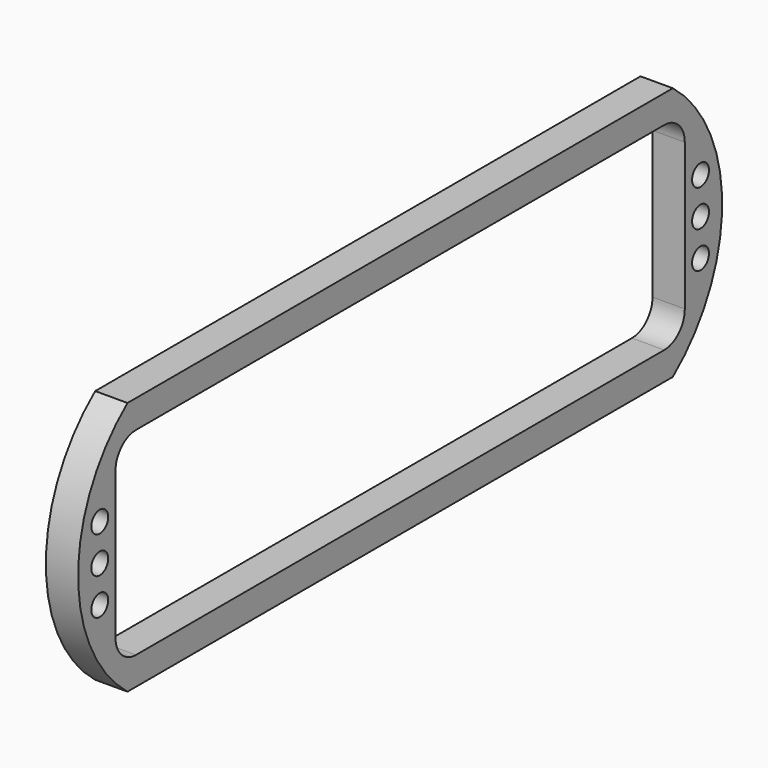
from build123d import *

# Parameters (mm, degrees)
F0_R     = 1.8288
F0_W     = 123.19
F0_H     = 34.29
F1_DEPTH = 5.588
F2_R     = 4.445


with BuildPart() as f1:
    # F0 (on Right) → F1 (new body)
    with BuildSketch(Plane.YZ):
        with BuildLine():
            ThreePointArc((59, -22), (69.679492, 0), (59, 22))
            Line((59, 22), (-59, 22))
            ThreePointArc((-59, 22), (-69.679492, 0), (-59, -22))
            Line((-59, -22), (59, -22))
        make_face()
        with Locations((-65, -6.35)):
            Circle(F0_R, mode=Mode.SUBTRACT)
        with Locations((65, -6.35)):
            Circle(F0_R, mode=Mode.SUBTRACT)
        with Locations((-65, 0)):
            Circle(F0_R, mode=Mode.SUBTRACT)
        with Locations((-65, 6.35)):
            Circle(F0_R, mode=Mode.SUBTRACT)
        Rectangle(F0_W, F0_H, mode=Mode.SUBTRACT)
        with Locations((65, 0)):
            Circle(F0_R, mode=Mode.SUBTRACT)
        with Locations((65, 6.35)):
            Circle(F0_R, mode=Mode.SUBTRACT)
    extrude(amount=F1_DEPTH)

    # F2
    f2_edges = [f1.edges().sort_by_distance(p)[0] for p in [
        (2.794, -61.595, 17.145),
        (2.794, -61.595, -17.145),
        (2.794, 61.595, -17.145),
        (2.794, 61.595, 17.145),
    ]]
    fillet(f2_edges, radius=F2_R)


solid = f1.part
